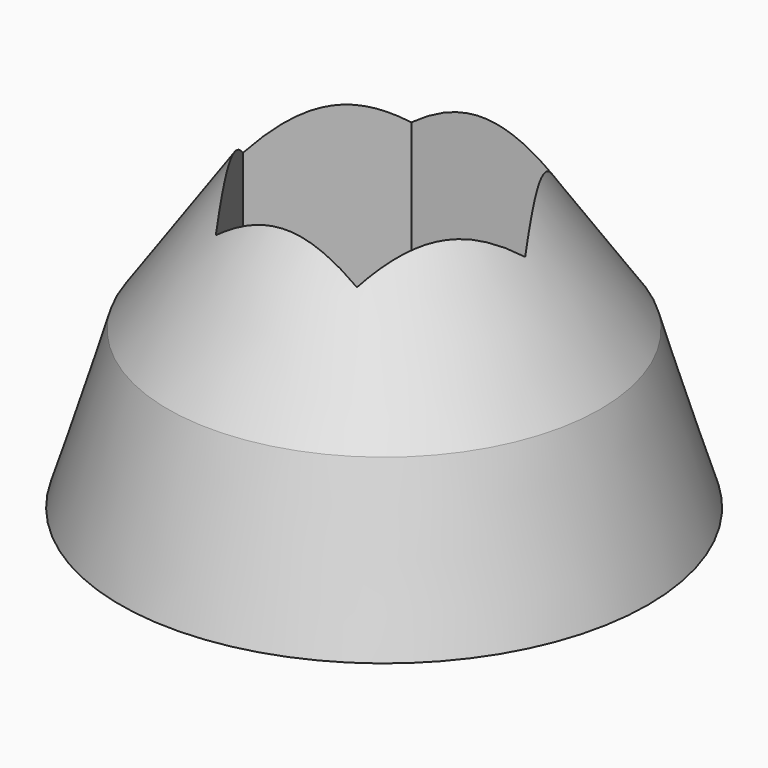
from build123d import *

# Parameters (mm, degrees)
SKETCH057_R     = 4
POCKET022_DEPTH = 25.927831
POCKET023_DEPTH = 14


with BuildPart() as part:
    # Sketch056 → Revolution004 (revolve)
    with BuildSketch(Plane.XZ):
        Polygon((0, 319.649472), (11.88, 302.332844), (14.5, 293.722641), (0, 293.722641), align=None)
    revolve(axis=Axis((0, 0, 0), (0, 0, 1)))

    # Sketch057 (on Face3 of Revolution004) → Pocket022 (cut, through all)
    with BuildSketch(Plane(origin=(0, 0, 293.722641), x_dir=(1, 0, 0), z_dir=(0, 0, -1))):
        Circle(SKETCH057_R)
    extrude(amount=-POCKET022_DEPTH, mode=Mode.SUBTRACT)

    # Sketch058 (on DatumPlane) → Pocket023 (cut)
    with BuildSketch(Plane(origin=(0, 0, 313.818958), x_dir=(0, -1, 0), z_dir=(0, 0, -1))):
        Polygon((6.711697, -3.875), (6.711697, 3.875), (0, 7.75), (-6.711697, 3.875), (-6.711697, -3.875), (0, -7.75), align=None)
    extrude(amount=POCKET023_DEPTH, mode=Mode.SUBTRACT)


solid = part.part
